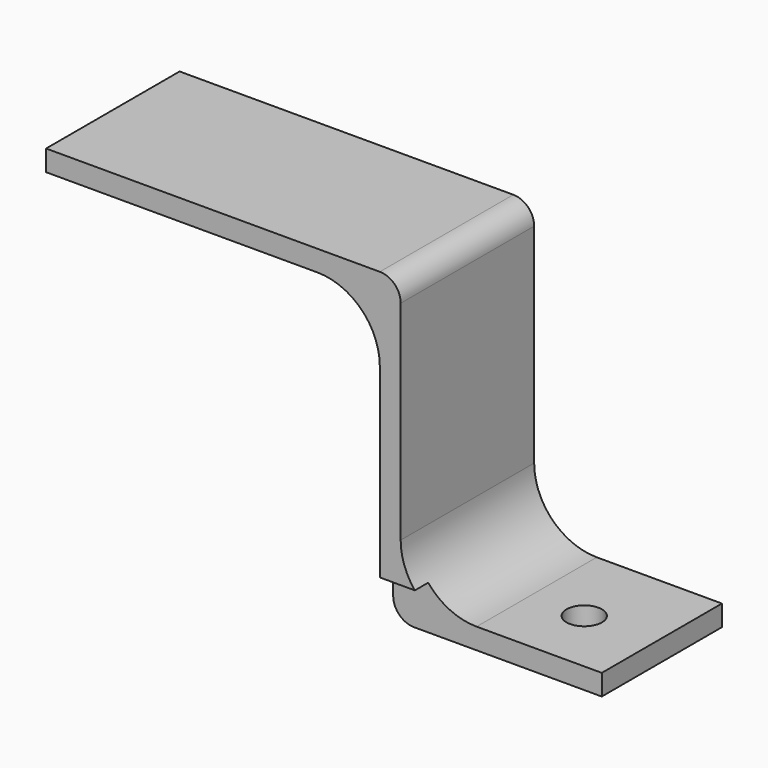
from build123d import *

# Parameters (mm, degrees)
F1_DEPTH = 40
F2_R     = 4.25
F3_DEPTH = 25
F4_R     = 15
F5_R     = 5
F6_W     = 56.803
F6_H     = 10.5
F7_DEPTH = 4
F8_DEPTH = 5


with BuildPart() as f1:
    # F0 (on Front) → F1 (new body)
    with BuildSketch(Plane.XZ):
        Polygon((-45, 0), (0, 0), (0, 5), (-45, 5), (-45, 70), (-45, 75), (-125, 75), (-125, 70), (-50, 70), (-50, 0), align=None)
    extrude(amount=F1_DEPTH)

    # F2 (on face) → F3 (cut)
    with BuildSketch(Plane(origin=(0, 0, 0), x_dir=(1, 0, 0), z_dir=(0, 0, -1))):
        with Locations((-17, 20)):
            Circle(F2_R)
    extrude(amount=-F3_DEPTH, mode=Mode.SUBTRACT)

    # F4
    f4_edges = [f1.edges().sort_by_distance(p)[0] for p in [
        (-45, -20, 5),
        (-50, -20, 70),
    ]]
    fillet(f4_edges, radius=F4_R)

    # F5
    f5_edges = [f1.edges().sort_by_distance(p)[0] for p in [
        (-45, -20, 75),
        (-50, -20, 0),
    ]]
    fillet(f5_edges, radius=F5_R)

    # F6 (on face) → F7 (cut)
    with BuildSketch(Plane.XZ.offset(40)):
        with Locations((-28.4015, 5.25)):
            Rectangle(F6_W, F6_H)
    extrude(amount=-F7_DEPTH, mode=Mode.SUBTRACT)

    # F8 (add): a face of the model
    f8_faces = [f1.faces().sort_by_distance(p)[0] for p in [
        (-125, -20, 72.5),
    ]]
    extrude(f8_faces, amount=F8_DEPTH)


solid = f1.part
